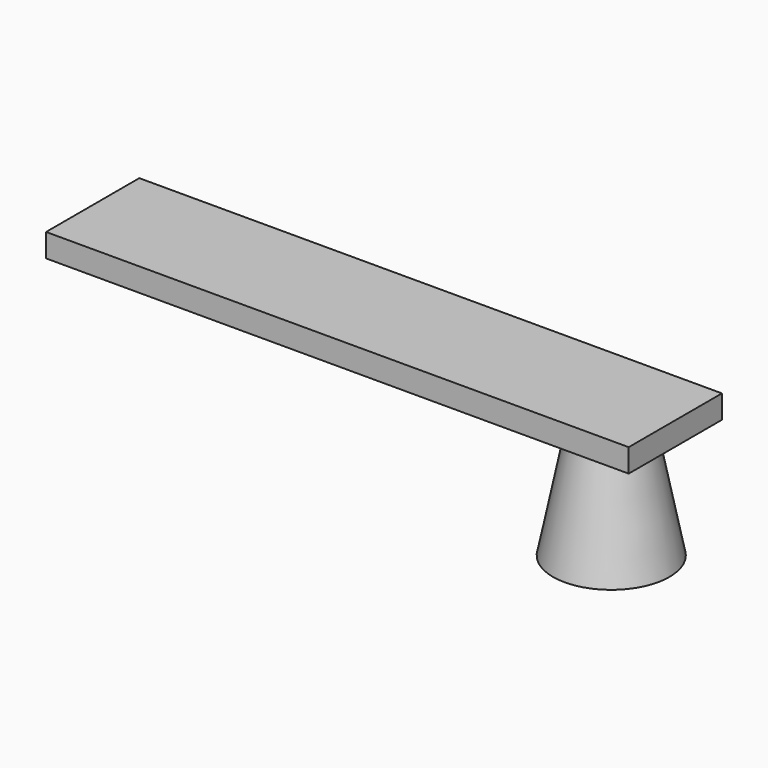
from build123d import *

# Parameters (mm, degrees)
BOX_W     = 100
BOX_H     = 20
BOX_DEPTH = 4


with BuildPart() as obj1:
    # Cone → Cone (revolve)
    with BuildSketch(Plane(origin=(-40, 0, 0), x_dir=(1, 0, 0), z_dir=(0, -1, 0))):
        Polygon((0, 0), (10, 0), (6, 20), (0, 20), align=None)
    revolve(axis=Axis((-40, 0, 0), (0, 0, 1)))


with BuildPart() as part_mirroring:
    # Part__Mirroring: instance of obj1
    add(obj1.part.mirror(Plane(origin=(0, 0, 0), x_dir=(0, -1, 0), z_dir=(1, 0, 0))))


with BuildPart() as cube:
    # Box → Box (new body)
    with BuildSketch(Plane(origin=(-49, -10, 20), x_dir=(1, 0, 0), z_dir=(0, 0, 1))):
        with Locations((50, 10)):
            Rectangle(BOX_W, BOX_H)
    extrude(amount=BOX_DEPTH)


solid = Compound([part_mirroring.part, cube.part])
